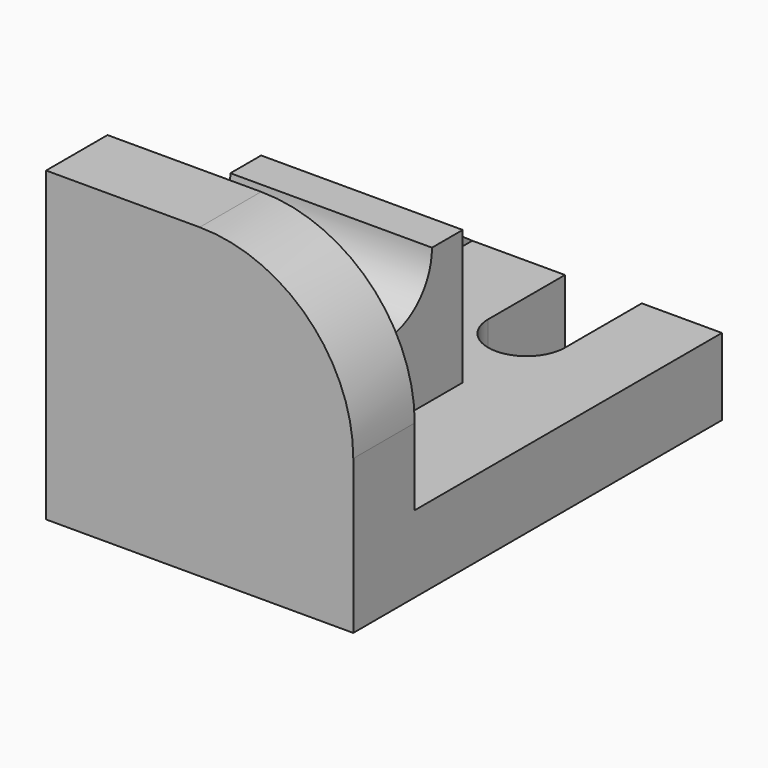
from build123d import *

# Parameters (mm, degrees)
F1_DEPTH  = 16
F2_W      = 64
F2_H      = 16
F3_DEPTH  = 48
F4_R      = 32
F5_W      = 42
F5_H      = 40
F6_DEPTH  = 28
F8_DEPTH  = 50
F9_W      = 12
F9_H      = 40
F10_DEPTH = 28
F12_W     = 12
F12_H     = 48.826222
F13_DEPTH = 25


with BuildPart() as f1:
    # F0 (on Top) → F1 (new body)
    with BuildSketch(Plane.XY):
        with BuildLine():
            Line((-19.074771, -39.273684), (44.925229, -39.273684))
            Line((44.925229, -39.273684), (44.925229, 56.726316))
            Line((44.925229, 56.726316), (28.229578, 56.726316))
            Line((28.229578, 56.726316), (28.229578, 36.726316))
            ThreePointArc((28.229578, 36.726316), (20.229578, 28.726316), (12.229578, 36.726316))
            Line((12.229578, 36.726316), (12.229578, 56.726316))
            Line((12.229578, 56.726316), (-19.074771, 56.726316))
            Line((-19.074771, 56.726316), (-19.074771, -39.273684))
        make_face()
    extrude(amount=F1_DEPTH)

    # F2 (on face) → F3 (join)
    with BuildSketch(Plane.XY.offset(16)):
        with Locations((12.925229, -31.273684)):
            Rectangle(F2_W, F2_H)
    extrude(amount=F3_DEPTH)

    # F4
    f4_edges = [f1.edges().sort_by_distance(p)[0] for p in [
        (44.925229, -31.273684, 64),
    ]]
    fillet(f4_edges, radius=F4_R)

    # F5 (on face) → F6 (join)
    with BuildSketch(Plane.XY.offset(16)):
        with Locations((1.925229, -3.273684)):
            Rectangle(F5_W, F5_H)
    extrude(amount=F6_DEPTH)

    # F7 (on face) → F8 (cut)
    with BuildSketch(Plane.YZ.offset(22.925229)):
        with BuildLine():
            Line((8.726316, 44), (-15.273684, 44))
            ThreePointArc((-15.273684, 44), (-3.273684, 32), (8.726316, 44))
        make_face()
    extrude(amount=-F8_DEPTH, mode=Mode.SUBTRACT)

    # F9 (on face) → F10 (join)
    with BuildSketch(Plane.XY.offset(16)):
        with Locations((-13.074771, 36.726316)):
            Rectangle(F9_W, F9_H)
    extrude(amount=F10_DEPTH)

    # F12 (on face) → F13 (cut)
    with BuildSketch(Plane(origin=(0, 26.171742, 37.388202), x_dir=(1, 0, 0), z_dir=(0, 0.573462, 0.819232))):
        with Locations((-13.074771, 12.8835)):
            Rectangle(F12_W, F12_H)
    extrude(amount=F13_DEPTH, mode=Mode.SUBTRACT)


solid = f1.part
